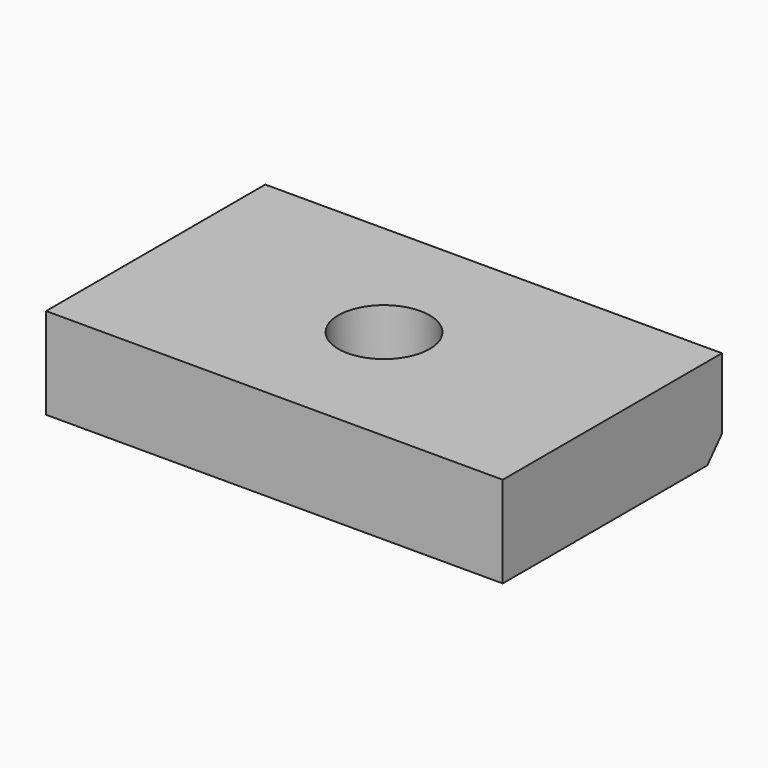
from build123d import *

# Parameters (mm, degrees)
F0_W     = 127
F0_H     = 76.2
F0_R     = 19.05
F1_DEPTH = 25.4
F2_R     = 12.7
F3_DEPTH = 25.4
F5_DEPTH = 128.778


with BuildPart() as f1:
    # F0 (on Top) → F1 (new body)
    with BuildSketch(Plane.XY):
        Rectangle(F0_W, F0_H)
        Circle(F0_R, mode=Mode.SUBTRACT)
        Circle(F0_R)
    extrude(amount=F1_DEPTH)

    # F2 (on face) → F3 (cut)
    with BuildSketch(Plane.XY.offset(25.4)):
        Circle(F2_R)
    extrude(amount=-F3_DEPTH, mode=Mode.SUBTRACT)

    # F4 (on face) → F5 (cut)
    with BuildSketch(Plane.YZ.offset(63.5)):
        Polygon((38.1, 0), (38.1, 5.679613), (33.02, 0), align=None)
    extrude(amount=-F5_DEPTH, mode=Mode.SUBTRACT)


solid = f1.part
